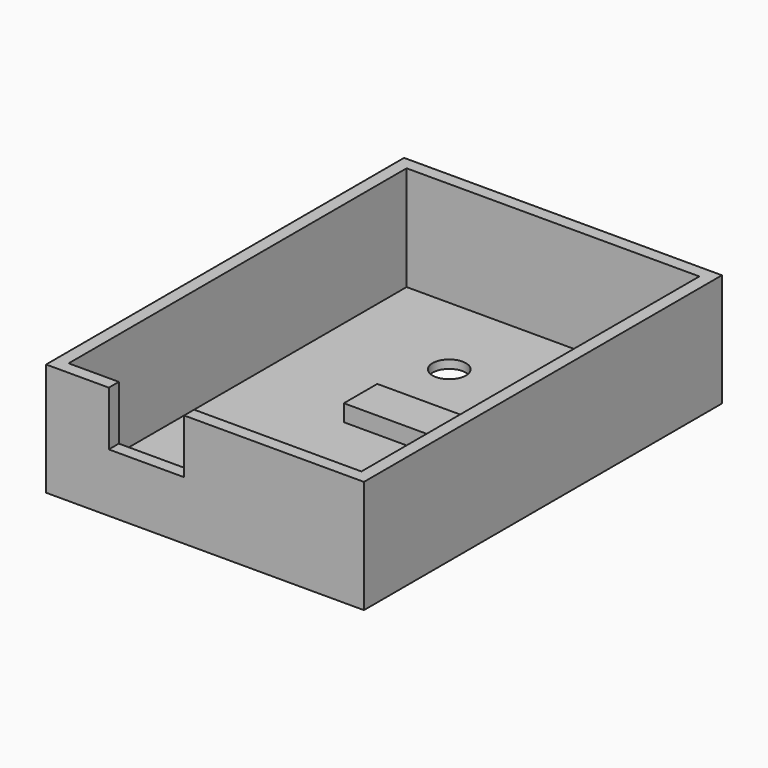
from build123d import *

# Parameters (mm, degrees)
F0_W     = 38
F0_H     = 53.5
F1_DEPTH = 13.5
F2_W     = 35
F2_H     = 50.5
F3_DEPTH = 12.5
F4_R     = 2
F5_DEPTH = 25
F6_W     = 9
F6_H     = 6.5
F7_DEPTH = 25
F8_W     = 10
F8_H     = 5
F9_DEPTH = 2


with BuildPart() as f1:
    # F0 (on Top) → F1 (new body)
    with BuildSketch(Plane.XY):
        Rectangle(F0_W, F0_H)
    extrude(amount=F1_DEPTH)

    # F2 (on face) → F3 (cut)
    with BuildSketch(Plane.XY.offset(13.5)):
        Rectangle(F2_W, F2_H)
    extrude(amount=-F3_DEPTH, mode=Mode.SUBTRACT)

    # F4 (on face) → F5 (cut)
    with BuildSketch(Plane(origin=(0, 0, 0), x_dir=(1, 0, 0), z_dir=(0, 0, -1))):
        with Locations((-4, -14.75)):
            Circle(F4_R)
    extrude(amount=-F5_DEPTH, mode=Mode.SUBTRACT)

    # F6 (on face) → F7 (cut)
    with BuildSketch(Plane.XZ.offset(26.75)):
        with Locations((-7, 10.25)):
            Rectangle(F6_W, F6_H)
    extrude(amount=-F7_DEPTH, mode=Mode.SUBTRACT)

    # F8 (on face) → F9 (join)
    with BuildSketch(Plane.XY.offset(1)):
        with Locations((0, 2.75)):
            Rectangle(F8_W, F8_H)
    extrude(amount=F9_DEPTH)


solid = f1.part
